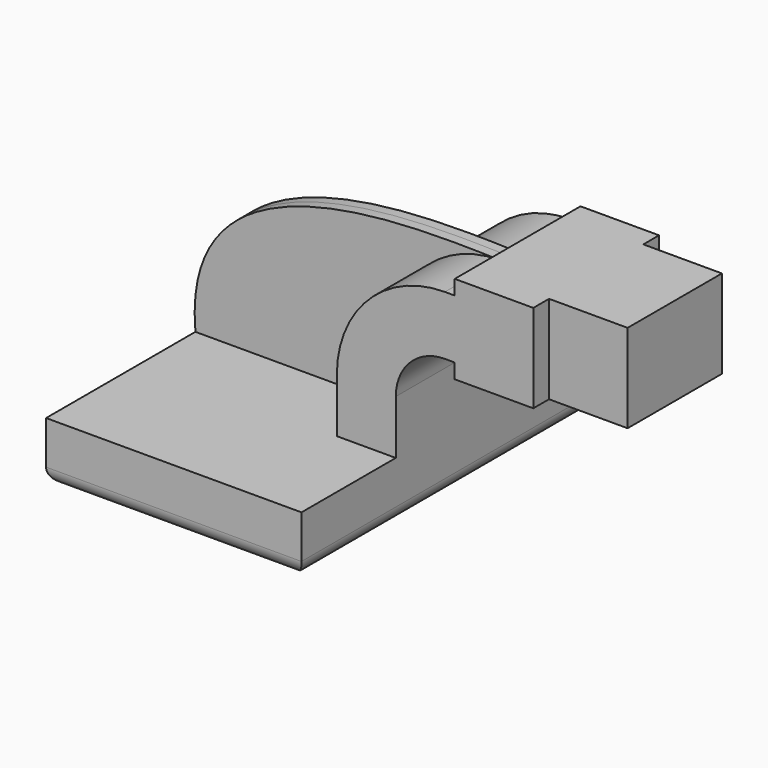
from build123d import *

# Parameters (mm, degrees)
F1_DEPTH = 63.5
F0_W     = 25.4
F0_H     = 19.05
F0_H_2   = 4.7498
F0_H_3   = 4.7752
F2_DEPTH = 25.4
F3_DEPTH = 3.175
F4_R     = 5.08
F5_DEPTH = 19.05


with BuildPart() as f1:
    # F0 (on Front) → F1 (new body, symmetric)
    with BuildSketch(Plane.XZ):
        Polygon((-41.275, -9.525), (41.275, -9.525), (41.275, 9.525), (22.225, 9.525), (-41.275, 9.525), align=None)
    extrude(amount=F1_DEPTH, both=True)

    # F0 (on Front) → F2 (join, symmetric)
    with BuildSketch(Plane.XZ):
        with BuildLine():
            Line((22.225, 9.525), (41.275, 9.525))
            Line((41.275, 9.525), (41.275, 27.0002))
            ThreePointArc((41.275, 27.0002), (45.9246798487, 38.2255201513), (57.15, 42.8752))
            Line((57.15, 42.8752), (60.325, 42.8752))
            Line((60.325, 42.8752), (60.325, 61.9252))
            Line((60.325, 61.9252), (57.15, 61.9252))
            ThreePointArc((57.15, 61.9252), (32.4542956671, 51.6959043329), (22.225, 27.0002))
            Line((22.225, 27.0002), (22.225, 9.525))
        make_face()
        with Locations((73.025, 52.4002)):
            Rectangle(F0_W, F0_H)
        with Locations((73.025, 64.3001)):
            Rectangle(F0_W, F0_H_2)
        with Locations((73.025, 40.4876)):
            Rectangle(F0_W, F0_H_3)
    extrude(amount=F2_DEPTH, both=True)

    # F0 (on Front) → F3 (join, symmetric)
    with BuildSketch(Plane.XZ):
        with BuildLine():
            add(Edge.make_bspline(
                [(-41.275, 9.525), (-46.2452806532, 64.7963359952), (25.8592385799, 62.7934262156), (57.15, 61.9252)],
                knots=[0, 0, 0, 0, 111.5045361635, 111.5045361635, 111.5045361635, 111.5045361635], degree=3))
            Line((-41.275, 9.525), (22.225, 9.525))
            Line((22.225, 9.525), (22.225, 27.0002))
            ThreePointArc((22.225, 27.0002), (32.4542956671, 51.6959043329), (57.15, 61.9252))
        make_face()
    extrude(amount=F3_DEPTH, both=True)

    # F4
    f4_edges = [f1.edges().sort_by_distance(p)[0] for p in [
        (0, -63.5, -9.525),
        (41.275, 0, -9.525),
        (0, 63.5, -9.525),
        (-41.275, 0, -9.525),
    ]]
    fillet(f4_edges, radius=F4_R)

    # F0 (on Front) → F5 (join, symmetric)
    with BuildSketch(Plane.XZ):
        Polygon((85.725, 66.675), (85.725, 61.9252), (85.725, 42.8752), (85.725, 38.1), (111.125, 38.1), (111.125, 66.675), align=None)
    extrude(amount=F5_DEPTH, both=True)


solid = f1.part
